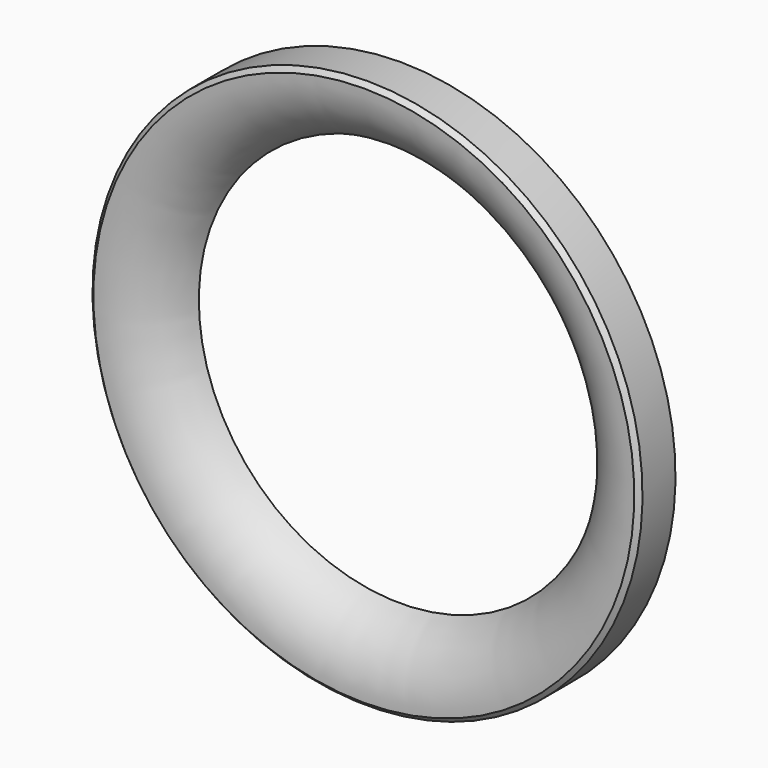
from build123d import *


with BuildPart() as f1:
    # F0 (on Right) → F1 (revolve)
    with BuildSketch(Plane.YZ):
        with BuildLine():
            Line((1, 60), (0, 59))
            ThreePointArc((0, 59), (2.495178, 49.830119), (10, 44))
            Line((10, 44), (10, 60))
            Line((10, 60), (1, 60))
        make_face()
    revolve(axis=Axis((0, 5, 0), (0, 1, 0)))


solid = f1.part
